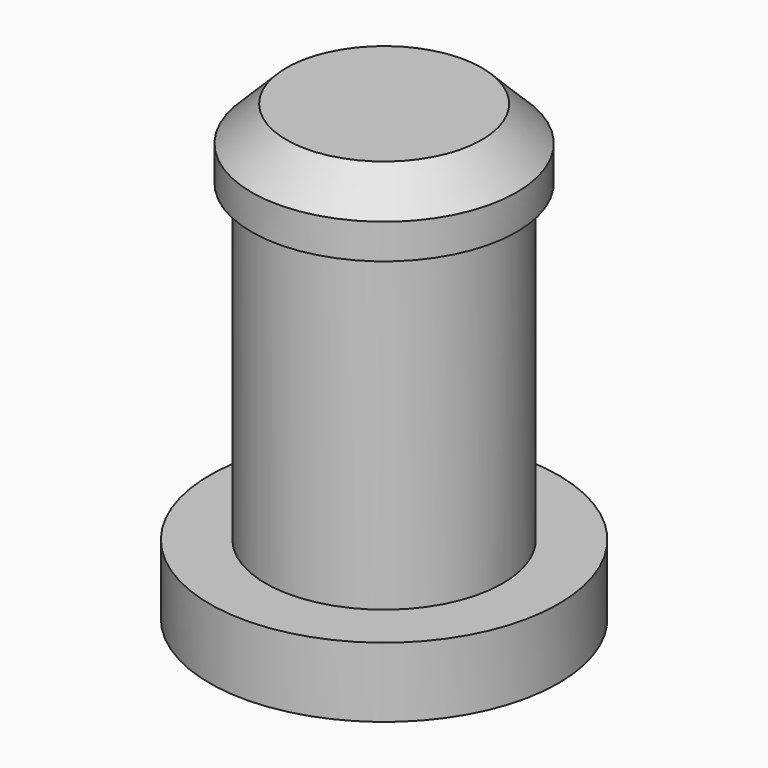
from build123d import *

# Parameters (mm, degrees)
F0_R     = 2.5
F1_DEPTH = 1
F2_R     = 1.7
F3_DEPTH = 5.5
F4_R     = 1.9
F5_DEPTH = 1
F6_SIZE  = 0.5


with BuildPart() as f1:
    # F0 (on Top) → F1 (new body)
    with BuildSketch(Plane.XY):
        Circle(F0_R)
    extrude(amount=F1_DEPTH)

    # F2 (on face) → F3 (join)
    with BuildSketch(Plane.XY.offset(1)):
        Circle(F2_R)
    extrude(amount=F3_DEPTH)

    # F4 (on face) → F5 (join)
    with BuildSketch(Plane.XY.offset(6.5)):
        Circle(F4_R)
    extrude(amount=-F5_DEPTH)

    # F6
    f6_edges = [f1.edges().sort_by_distance(p)[0] for p in [
        (-1.9, 0, 6.5),
    ]]
    chamfer(f6_edges, length=F6_SIZE)


solid = f1.part
